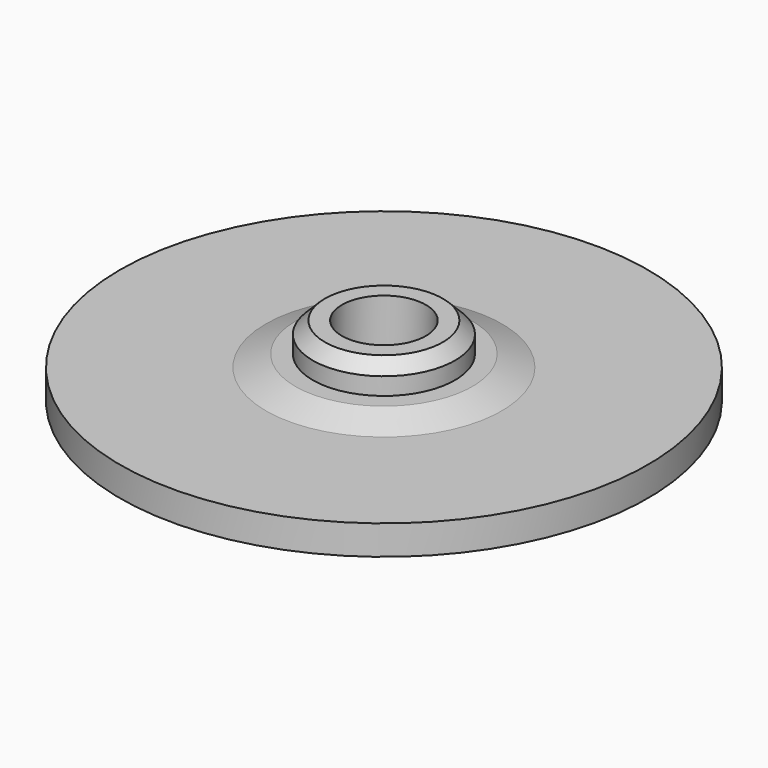
from build123d import *


with BuildPart() as part:
    # Sketch → Revolution (revolve)
    with BuildSketch(Plane.XZ):
        Polygon((-1.5, 0), (-1.5, -0.85), (-3.85, -0.85), (-3.85, -1.85), (-4.85, -1.85), (-5.35, -1.35), (-17.9, -1.35), (-17.9, 0.65), (-8, 0.65), (-6, 1.45), (-4.825, 1.45), (-4.825, 2.625), (-4, 3.45), (-2.85, 3.45), (-2.85, 0), align=None)
    revolve(axis=Axis((0, 0, 0), (0, 0, 1)))


solid = part.part
